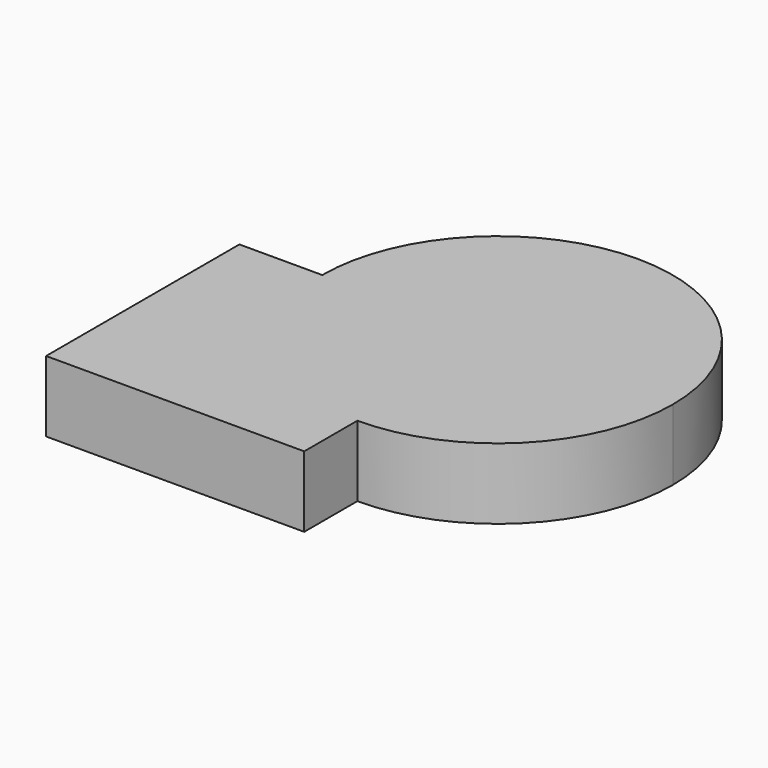
from build123d import *

# Parameters (mm, degrees)
F1_DEPTH = 25.4


with BuildPart() as f1:
    # F0 (on Top) → F1 (new body)
    with BuildSketch(Plane.XY):
        with BuildLine():
            Line((-38.227171, -40.740885), (-101.029376, -40.740885))
            ThreePointArc((-101.029376, -40.740885), (-82.635036, -85.14875), (-38.227171, -103.54309))
            Line((-38.227171, -103.54309), (-38.227171, -40.740885))
        make_face()
        with BuildLine():
            Line((-101.029376, -40.740885), (-130.738348, -40.740885))
            Line((-130.738348, -40.740885), (-130.738348, -127.330303))
            Line((-130.738348, -127.330303), (-38.227171, -127.330303))
            Line((-38.227171, -127.330303), (-38.227171, -103.54309))
            ThreePointArc((-38.227171, -103.54309), (-82.635036, -85.14875), (-101.029376, -40.740885))
        make_face()
        with BuildLine():
            ThreePointArc((24.575035, -40.740885), (-38.227171, 22.061321), (-101.029376, -40.740885))
            Line((-101.029376, -40.740885), (-38.227171, -40.740885))
            Line((-38.227171, -40.740885), (-38.227171, -103.54309))
            ThreePointArc((-38.227171, -103.54309), (6.180695, -85.14875), (24.575035, -40.740885))
        make_face()
    extrude(amount=F1_DEPTH)


solid = f1.part
